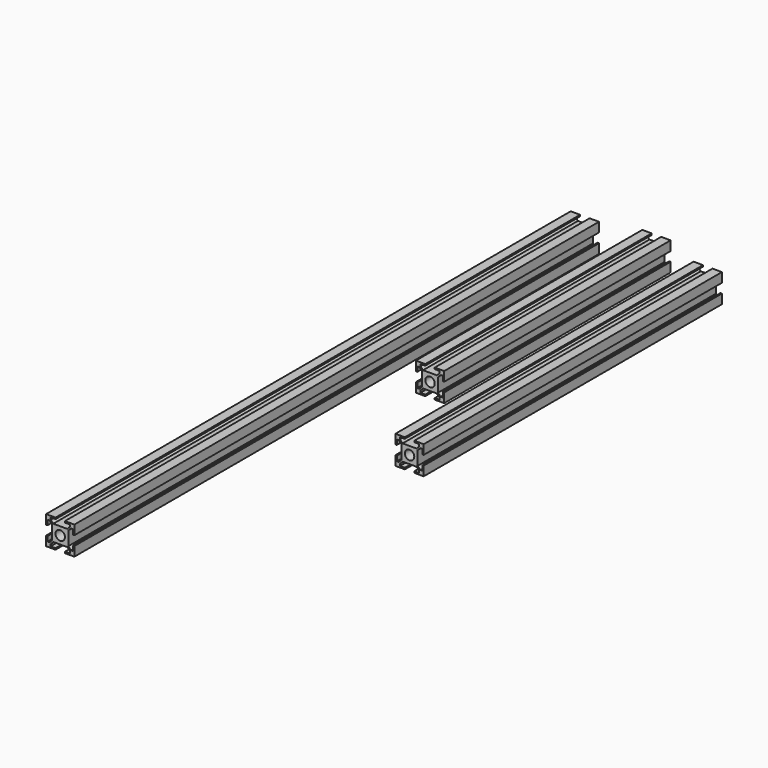
from build123d import *

# Parameters (mm, degrees)
F0_R     = 5
F1_DEPTH = 300
F2_R     = 5
F3_DEPTH = 695.02
F4_R     = 5
F5_DEPTH = 395.1


with BuildPart() as f1:
    # F0 (on Front) → F1 (new body)
    with BuildSketch(Plane.XZ):
        Polygon((7.3542486889, 8.5), (0, 8.5), (-7.3542486889, 8.5), (-10.1826758137, 11.3284271247), (-10.1826758137, 13.5), (-5, 13.5), (-5, 15), (-15, 15), (-15, 5), (-13.5, 5), (-13.5, 10.1826758137), (-11.3284271247, 10.1826758137), (-8.5, 7.3542486889), (-8.5, 0), (-8.5, -7.3542486889), (-11.3284271247, -10.1826758137), (-13.5, -10.1826758137), (-13.5, -5), (-15, -5), (-15, -15), (-5, -15), (-5, -13.5), (-10.1826758137, -13.5), (-10.1826758137, -11.3284271247), (-7.3542486889, -8.5), (0, -8.5), (7.3542486889, -8.5), (10.1826758137, -11.3284271247), (10.1826758137, -13.5), (5, -13.5), (5, -15), (15, -15), (15, -5), (13.5, -5), (13.5, -10.1826758137), (11.3284271247, -10.1826758137), (8.5, -7.3542486889), (8.5, 0), (8.5, 7.3542486889), (11.3284271247, 10.1826758137), (13.5, 10.1826758137), (13.5, 5), (15, 5), (15, 15), (5, 15), (5, 13.5), (10.1826758137, 13.5), (10.1826758137, 11.3284271247), align=None)
        Circle(F0_R, mode=Mode.SUBTRACT)
    extrude(amount=F1_DEPTH)


with BuildPart() as f3:
    # F2 (on Front) → F3 (new body)
    with BuildSketch(Plane.XZ):
        Polygon((-68.5562385395, 1.151542255), (-75.9104872284, 1.151542255), (-83.2647359174, 1.151542255), (-86.0931630421, 3.9799693797), (-86.0931630421, 6.151542255), (-80.9104872284, 6.151542255), (-80.9104872284, 7.651542255), (-90.9104872284, 7.651542255), (-90.9104872284, -2.348457745), (-89.4104872284, -2.348457745), (-89.4104872284, 2.8342180686), (-87.2389143532, 2.8342180686), (-84.4104872284, 0.0057909439), (-84.4104872284, -7.348457745), (-84.4104872284, -14.702706434), (-87.2389143532, -17.5311335587), (-89.4104872284, -17.5311335587), (-89.4104872284, -12.348457745), (-90.9104872284, -12.348457745), (-90.9104872284, -22.348457745), (-80.9104872284, -22.348457745), (-80.9104872284, -20.848457745), (-86.0931630421, -20.848457745), (-86.0931630421, -18.6768848698), (-83.2647359174, -15.848457745), (-75.9104872284, -15.848457745), (-68.5562385395, -15.848457745), (-65.7278114147, -18.6768848698), (-65.7278114147, -20.848457745), (-70.9104872284, -20.848457745), (-70.9104872284, -22.348457745), (-60.9104872284, -22.348457745), (-60.9104872284, -12.348457745), (-62.4104872284, -12.348457745), (-62.4104872284, -17.5311335587), (-64.5820601037, -17.5311335587), (-67.4104872284, -14.702706434), (-67.4104872284, -7.348457745), (-67.4104872284, 0.0057909439), (-64.5820601037, 2.8342180686), (-62.4104872284, 2.8342180686), (-62.4104872284, -2.348457745), (-60.9104872284, -2.348457745), (-60.9104872284, 7.651542255), (-70.9104872284, 7.651542255), (-70.9104872284, 6.151542255), (-65.7278114147, 6.151542255), (-65.7278114147, 3.9799693797), align=None)
        with Locations((-75.9104872284, -7.348457745)):
            Circle(F2_R, mode=Mode.SUBTRACT)
    extrude(amount=F3_DEPTH)


with BuildPart() as f5:
    # F4 (on Front) → F5 (new body)
    with BuildSketch(Plane.XZ):
        Polygon((61.7362180576, -3.4269475553), (54.3819693687, -3.4269475553), (47.0277206797, -3.4269475553), (44.199293555, -0.5985204305), (44.199293555, 1.5730524447), (49.3819693687, 1.5730524447), (49.3819693687, 3.0730524447), (39.3819693687, 3.0730524447), (39.3819693687, -6.9269475553), (40.8819693687, -6.9269475553), (40.8819693687, -1.7442717416), (43.0535422439, -1.7442717416), (45.8819693687, -4.5726988663), (45.8819693687, -11.9269475553), (45.8819693687, -19.2811962442), (43.0535422439, -22.1096233689), (40.8819693687, -22.1096233689), (40.8819693687, -16.9269475553), (39.3819693687, -16.9269475553), (39.3819693687, -26.9269475553), (49.3819693687, -26.9269475553), (49.3819693687, -25.4269475553), (44.199293555, -25.4269475553), (44.199293555, -23.25537468), (47.0277206797, -20.4269475553), (54.3819693687, -20.4269475553), (61.7362180576, -20.4269475553), (64.5646451824, -23.25537468), (64.5646451824, -25.4269475553), (59.3819693687, -25.4269475553), (59.3819693687, -26.9269475553), (69.3819693687, -26.9269475553), (69.3819693687, -16.9269475553), (67.8819693687, -16.9269475553), (67.8819693687, -22.1096233689), (65.7103964934, -22.1096233689), (62.8819693687, -19.2811962442), (62.8819693687, -11.9269475553), (62.8819693687, -4.5726988663), (65.7103964934, -1.7442717416), (67.8819693687, -1.7442717416), (67.8819693687, -6.9269475553), (69.3819693687, -6.9269475553), (69.3819693687, 3.0730524447), (59.3819693687, 3.0730524447), (59.3819693687, 1.5730524447), (64.5646451824, 1.5730524447), (64.5646451824, -0.5985204305), align=None)
        with Locations((54.3819693687, -11.9269475553)):
            Circle(F4_R, mode=Mode.SUBTRACT)
    extrude(amount=F5_DEPTH)


solid = Compound([f1.part, f3.part, f5.part])
